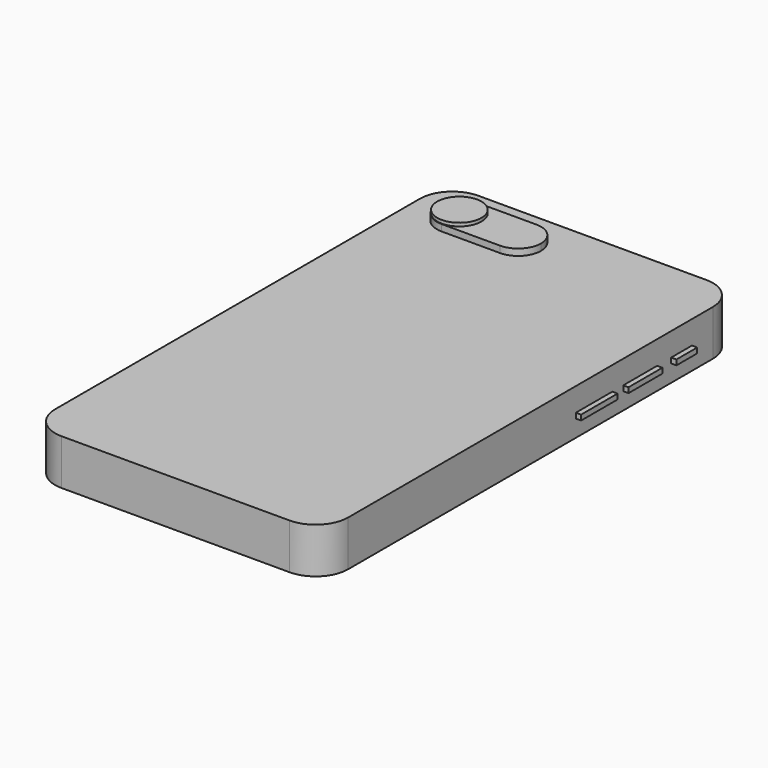
from build123d import *

# Parameters (mm, degrees)
F0_W      = 45
F0_H      = 80
F1_DEPTH  = 7
F2_R      = 5
F4_DEPTH  = 8
F5_R      = 3.4
F6_DEPTH  = 8.5
F7_W      = 4
F7_H      = 0.8
F8_DEPTH  = 26
F9_W      = 6.5
F9_H      = 0.8
F10_DEPTH = 26
F11_W     = 7
F11_H     = 0.8
F12_DEPTH = 26
F13_W     = 10
F13_H     = 1
F14_DEPTH = 20.5
F15_R     = 4
F16_DEPTH = 0.2
F17_W     = 40
F17_H     = 58
F18_DEPTH = 0.1


with BuildPart() as f1:
    # F0 (on Top) → F1 (new body)
    with BuildSketch(Plane.XY):
        with Locations((2.694569, -2.665429)):
            Rectangle(F0_W, F0_H)
    extrude(amount=F1_DEPTH)

    # F2
    f2_edges = [f1.edges().sort_by_distance(p)[0] for p in [
        (-19.805431, 37.334571, 3.5),
        (25.194569, 37.334571, 3.5),
        (-19.805431, -42.665429, 3.5),
        (25.194569, -42.665429, 3.5),
    ]]
    fillet(f2_edges, radius=F2_R)

    # F3 (on Top) → F4 (join)
    with BuildSketch(Plane.XY):
        with BuildLine():
            Line((-3.5, 34.334571), (-12.5, 34.334571))
            ThreePointArc((-12.5, 34.334571), (-14.974874, 33.309444), (-16, 30.834571))
            ThreePointArc((-16, 30.834571), (-14.974874, 28.359697), (-12.5, 27.334571))
            Line((-12.5, 27.334571), (-3.5, 27.334571))
            ThreePointArc((-3.5, 27.334571), (-1.025126, 28.359697), (0, 30.834571))
            ThreePointArc((0, 30.834571), (-1.025126, 33.309444), (-3.5, 34.334571))
        make_face()
    extrude(amount=F4_DEPTH)

    # F5 (on Top) → F6 (join)
    with BuildSketch(Plane.XY):
        with Locations((-12.527948, 30.834571)):
            Circle(F5_R)
    extrude(amount=F6_DEPTH)

    # F7 (on Right) → F8 (join)
    with BuildSketch(Plane.YZ):
        with Locations((26.334571, 3.018534)):
            Rectangle(F7_W, F7_H)
    extrude(amount=F8_DEPTH)

    # F9 (on Right) → F10 (join)
    with BuildSketch(Plane.YZ):
        with Locations((18.387751, 3)):
            Rectangle(F9_W, F9_H)
    extrude(amount=F10_DEPTH)

    # F11 (on Right) → F12 (join)
    with BuildSketch(Plane.YZ):
        with Locations((9.535096, 3)):
            Rectangle(F11_W, F11_H)
    extrude(amount=F12_DEPTH)

    # F13 (on Right) → F14 (join)
    with BuildSketch(Plane.YZ):
        with Locations((15.474138, 3.5)):
            Rectangle(F13_W, F13_H)
    extrude(amount=-F14_DEPTH)

    # F15 (on Top) → F16 (join)
    with BuildSketch(Plane.XY):
        with Locations((2.694569, -35.592675)):
            Circle(F15_R)
    extrude(amount=-F16_DEPTH)

    # F17 (on Top) → F18 (join)
    with BuildSketch(Plane.XY):
        with Locations((2.694569, 0.584052)):
            Rectangle(F17_W, F17_H)
    extrude(amount=-F18_DEPTH)


solid = f1.part
